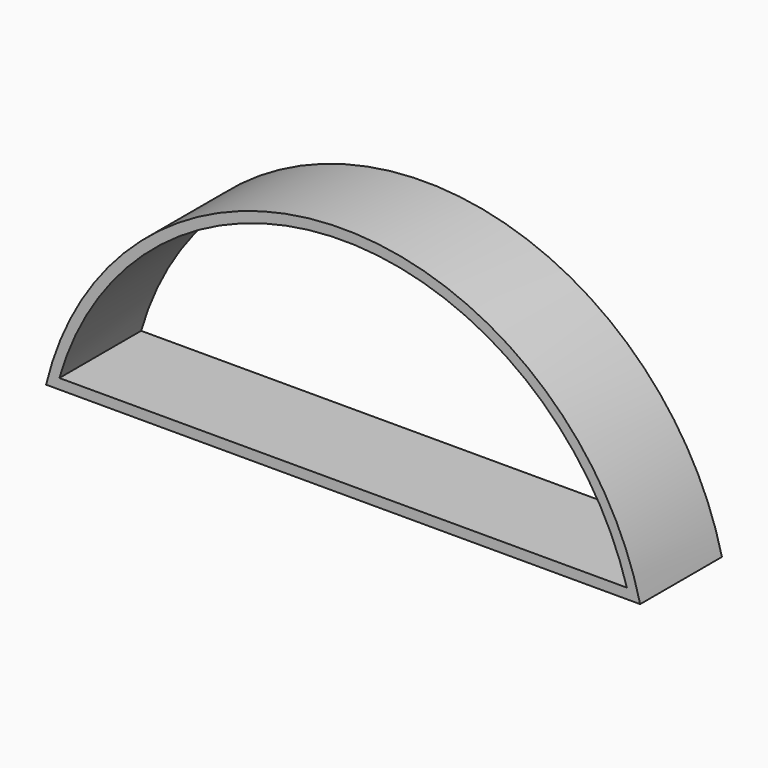
from build123d import *

# Parameters (mm, degrees)
F0_DEPTH = 25.4
F2_T     = -2.54


with BuildPart() as f0:
    # F1 (on Front) → F0 (new body)
    with BuildSketch(Plane.XZ):
        with BuildLine():
            Line((-68.130404, 0), (79.480305, 0))
            ThreePointArc((79.480305, 0), (5.674951, 58.108915), (-68.130404, 0))
        make_face()
    extrude(amount=-F0_DEPTH)

    # F2
    f2_openings = [f0.faces().sort_by_distance(p)[0] for p in [
        (5.674951, 25.4, 24.2284),
        (5.674951, 0, 24.2284),
    ]]
    offset(amount=F2_T, openings=f2_openings)


solid = f0.part
